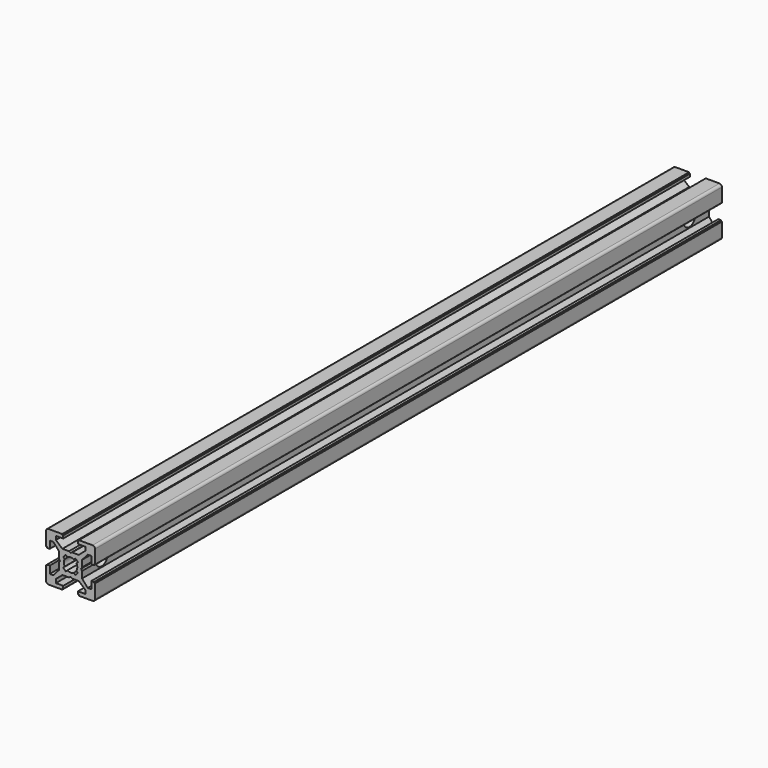
from build123d import *

# Parameters (mm, degrees)
PAD_DEPTH          = 320
POCKET_DEPTH       = 320
POLARPATTERN_COUNT = 4
POCKET001_DEPTH    = 320
SKETCH003_R        = 3
POCKET002_DEPTH    = 20
SKETCH004_R        = 5
POCKET003_DEPTH    = 3
POCKET004_DEPTH    = 3


with BuildPart() as pocket002:
    # Sketch → Pad (new body)
    with BuildSketch(Plane.XZ):
        with BuildLine():
            Line((-9, 10), (9, 10))
            ThreePointArc((10, 9), (9.707107, 9.707107), (9, 10))
            Line((10, 9), (10, -9))
            ThreePointArc((9, -10), (9.707107, -9.707107), (10, -9))
            Line((9, -10), (-9, -10))
            ThreePointArc((-10, -9), (-9.707107, -9.707107), (-9, -10))
            Line((-10, -9), (-10, 9))
            ThreePointArc((-9, 10), (-9.707107, 9.707107), (-10, 9))
        make_face()
    extrude(amount=PAD_DEPTH)

    # Sketch001 (on Face10 of Pad) → Pocket (cut)
    with BuildSketch(Plane.XZ.offset(320)):
        Polygon((-3.4, 10), (-3.4, 9.6), (-3, 9.6), (-3, 8.5), (-6, 8.5), (-6, 7), (-3.35, 4.7), (-0.65, 4.7), (0, 4.3), (0.65, 4.7), (3.35, 4.7), (6, 7), (6, 8.5), (3, 8.5), (3, 9.6), (3.4, 9.6), (3.4, 10), align=None)
    pocket = extrude(amount=-POCKET_DEPTH, mode=Mode.SUBTRACT)

    # PolarPattern: Pocket ×4 about axis
    polarpattern_axis = Axis((0, -320, 0), (0, -1, 0))
    for i in range(1, POLARPATTERN_COUNT):
        add(pocket.rotate(polarpattern_axis, i * 360 / POLARPATTERN_COUNT), mode=Mode.SUBTRACT)

    # Sketch002 (on Face4 of PolarPattern) → Pocket001 (cut)
    with BuildSketch(Plane.XZ.offset(320)):
        with BuildLine():
            ThreePointArc((1.340499, 2.401159), (0, 2.75), (-1.340499, 2.401159))
            Line((-1.944544, 3.005204), (-1.340499, 2.401159))
            Line((-3.005204, 1.944544), (-1.944544, 3.005204))
            Line((-2.401159, 1.340499), (-3.005204, 1.944544))
            ThreePointArc((-2.401159, 1.340499), (-2.75, 0), (-2.401159, -1.340499))
            Line((-3.005204, -1.944544), (-2.401159, -1.340499))
            Line((-1.944544, -3.005204), (-3.005204, -1.944544))
            Line((-1.340499, -2.401159), (-1.944544, -3.005204))
            ThreePointArc((-1.340499, -2.401159), (0, -2.75), (1.340499, -2.401159))
            Line((1.944544, -3.005204), (1.340499, -2.401159))
            Line((3.005204, -1.944544), (1.944544, -3.005204))
            Line((2.401159, -1.340499), (3.005204, -1.944544))
            ThreePointArc((2.401159, -1.340499), (2.75, 0), (2.401159, 1.340499))
            Line((2.401159, 1.340499), (3.005204, 1.944544))
            Line((3.005204, 1.944544), (1.944544, 3.005204))
            Line((1.944544, 3.005204), (1.340499, 2.401159))
        make_face()
    extrude(amount=-POCKET001_DEPTH, mode=Mode.SUBTRACT)

    # Sketch003 (on Face44 of Pocket001) → Pocket002 (cut)
    with BuildSketch(Plane(origin=(10, 0, 0), x_dir=(0, 0, 1), z_dir=(1, 0, 0))):
        with Locations((0, 10)):
            Circle(SKETCH003_R)
        with Locations((0, 310)):
            Circle(SKETCH003_R)
    extrude(amount=-POCKET002_DEPTH, mode=Mode.SUBTRACT)


with BuildPart() as pocket003:
    # Pocket003 base: copy of Pocket002
    add(pocket002.part)

    # Sketch004 (on Face37 of Pocket002) → Pocket003 (cut)
    with BuildSketch(Plane(origin=(-10, 0, 0), x_dir=(0, 0, -1), z_dir=(-1, 0, 0))):
        with Locations((0, 10)):
            Circle(SKETCH004_R)
        with Locations((0, 310)):
            Circle(SKETCH004_R)
    extrude(amount=-POCKET003_DEPTH, mode=Mode.SUBTRACT)


with BuildPart() as pocket004:
    # Pocket004 base: copy of Pocket002
    add(pocket002.part)

    # Sketch004 (on Face37 of Pocket002) → Pocket004 (cut)
    with BuildSketch(Plane(origin=(-10, 0, 0), x_dir=(0, 0, -1), z_dir=(-1, 0, 0))):
        with Locations((0, 10)):
            Circle(SKETCH004_R)
        with Locations((0, 310)):
            Circle(SKETCH004_R)
    extrude(amount=-POCKET004_DEPTH, mode=Mode.SUBTRACT)


solid = Compound([pocket003.part, pocket004.part])
